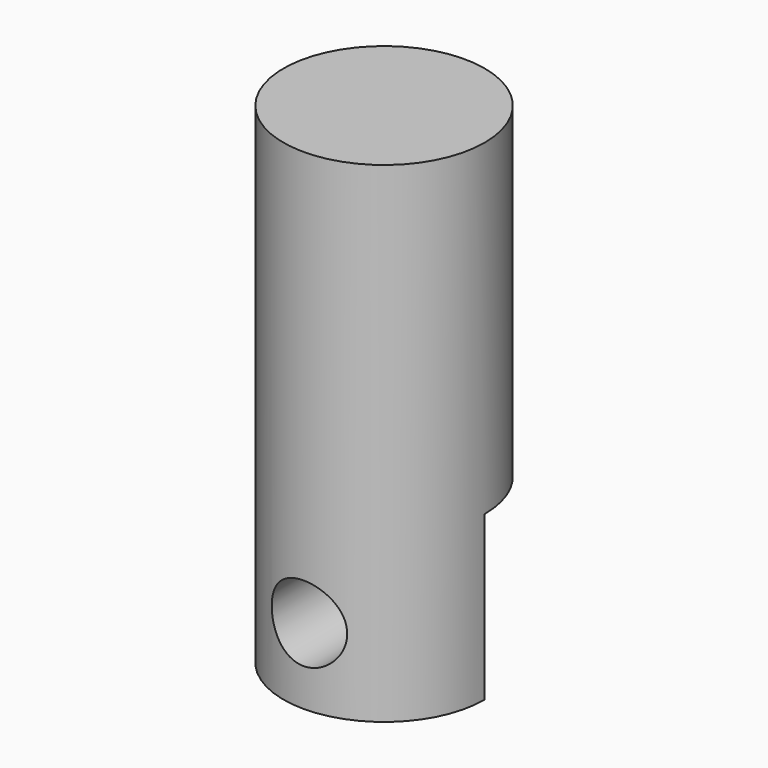
from build123d import *

# Parameters (mm, degrees)
F0_R      = 8
F1_DEPTH  = 20.5
F2_W      = 16
F2_H      = 8
F3_DEPTH  = 13
F5_D      = 6
F8_D      = 5.2
F8_DEPTH  = 8
F8_START  = 0.434288
F8_TIP    = 1.5622376095
F9_R      = 8
F10_DEPTH = 2


with BuildPart() as f1:
    # F0 (on Top) → F1 (new body, symmetric)
    with BuildSketch(Plane.XY):
        Circle(F0_R)
    extrude(amount=F1_DEPTH, both=True)

    # F2 (on face) → F3 (cut)
    with BuildSketch(Plane(origin=(0, 0, -20.5), x_dir=(1, 0, 0), z_dir=(0, 0, -1))):
        with Locations((0, -4)):
            Rectangle(F2_W, F2_H)
    extrude(amount=-F3_DEPTH, mode=Mode.SUBTRACT)

    # F5 (through all)
    with Locations(Plane(origin=(0, 0, 0), x_dir=(-1, 0, 0), z_dir=(0, 1, 0))):
        with Locations((0, -14.5)):
            Hole(F5_D / 2)

    # F8
    # its depths count from where the whole tool has entered the part; down to there all is cleared
    with Locations(Plane(origin=(0, 8, 0), x_dir=(1, 0, 0), z_dir=(0, 1, 0)).offset(-F8_START)):
        with Locations((0, -14.5)):
            Hole(F8_D / 2, depth=F8_DEPTH)
            with Locations((0, 0, -(F8_DEPTH + F8_TIP / 2))):  # 118° drill point
                Cone(0, F8_D / 2, F8_TIP, mode=Mode.SUBTRACT)

    # F9 (on face) → F10 (cut)
    with BuildSketch(Plane.XY.offset(20.5)):
        Circle(F9_R)
    extrude(amount=-F10_DEPTH, mode=Mode.SUBTRACT)


solid = f1.part
